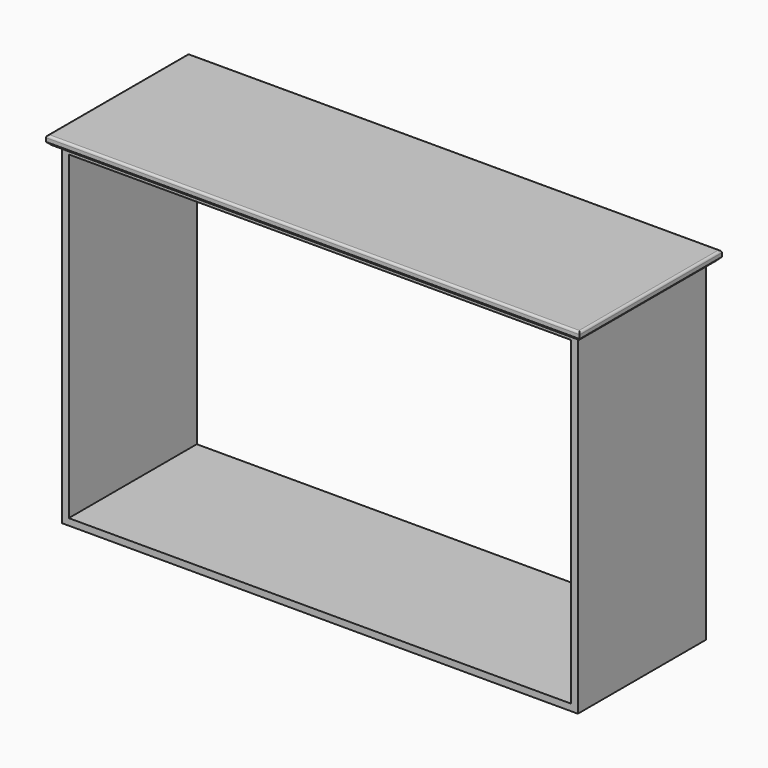
from build123d import *

# Parameters (mm, degrees)
F0_W     = 1524
F0_H     = 508
F1_DEPTH = 25.4
F2_W     = 1473.2
F2_H     = 457.2
F3_DEPTH = 19.05
F4_SIZE  = 8.382
F5_R     = 6.35
F6_W     = 19.05
F6_H     = 457.2
F7_DEPTH = 914.4
F8_W     = 1473.2
F8_H     = 457.2
F9_DEPTH = 19.05


with BuildPart() as f1:
    # F0 (on Top) → F1 (new body)
    with BuildSketch(Plane.XY):
        Rectangle(F0_W, F0_H)
    extrude(amount=F1_DEPTH)

    # F2 (on face) → F3 (join)
    with BuildSketch(Plane(origin=(0, 0, 0), x_dir=(1, 0, 0), z_dir=(0, 0, -1))):
        Rectangle(F2_W, F2_H)
    extrude(amount=F3_DEPTH)

    # F4
    f4_edges = [f1.edges().sort_by_distance(p)[0] for p in [
        (0, -254, 0),
        (762, 0, 0),
        (0, 254, 0),
        (-762, 0, 0),
    ]]
    chamfer(f4_edges, length=F4_SIZE)

    # F5
    f5_edges = [f1.edges().sort_by_distance(p)[0] for p in [
        (0, -254, 25.4),
        (0, 254, 25.4),
        (762, 0, 25.4),
        (-762, 0, 25.4),
    ]]
    fillet(f5_edges, radius=F5_R)

    # F6 (on face) → F7 (join)
    with BuildSketch(Plane(origin=(0, 0, -19.05), x_dir=(1, 0, 0), z_dir=(0, 0, -1))):
        with Locations((727.075, 0)):
            Rectangle(F6_W, F6_H)
        with Locations((-727.075, 0)):
            Rectangle(F6_W, F6_H)
    extrude(amount=F7_DEPTH)

    # F8 (on face) → F9 (join)
    with BuildSketch(Plane(origin=(0, 0, -933.45), x_dir=(1, 0, 0), z_dir=(0, 0, -1))):
        Rectangle(F8_W, F8_H)
    extrude(amount=F9_DEPTH)


solid = f1.part
